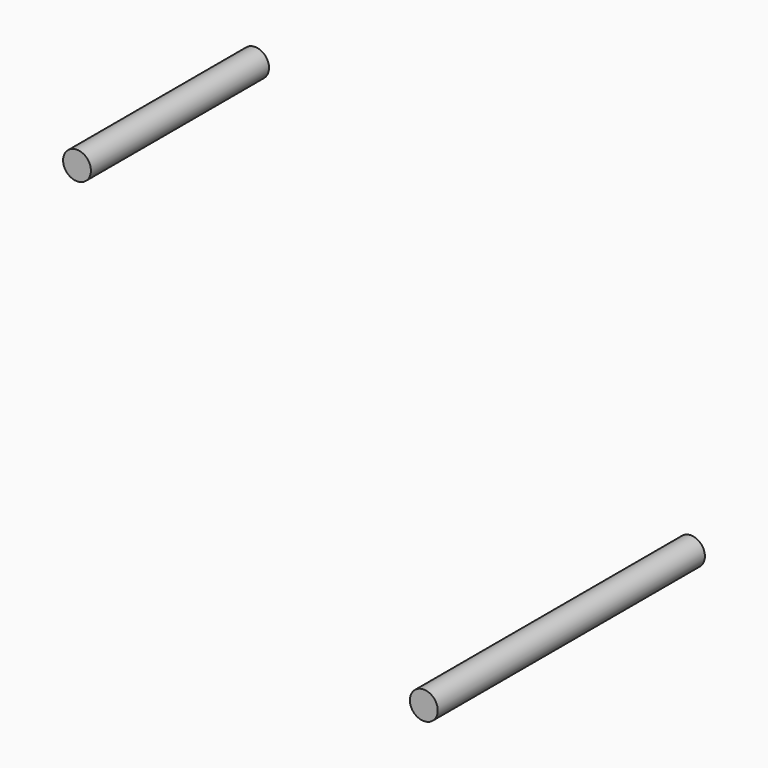
from build123d import *

# Parameters (mm, degrees)
F0_R     = 0.79375
F1_DEPTH = 9.525
F2_R     = 0.79375
F3_DEPTH = 6.35


with BuildPart() as f1:
    # F0 (on Front) → F1 (new body, symmetric)
    with BuildSketch(Plane.XZ):
        with Locations((-22.108026, 13.919869)):
            Circle(F0_R)
    extrude(amount=F1_DEPTH, both=True)


with BuildPart() as f3:
    # F2 (on Front) → F3 (new body, symmetric)
    with BuildSketch(Plane.XZ):
        with Locations((-44.430371, 32.477476)):
            Circle(F2_R)
    extrude(amount=F3_DEPTH, both=True)


solid = Compound([f1.part, f3.part])
